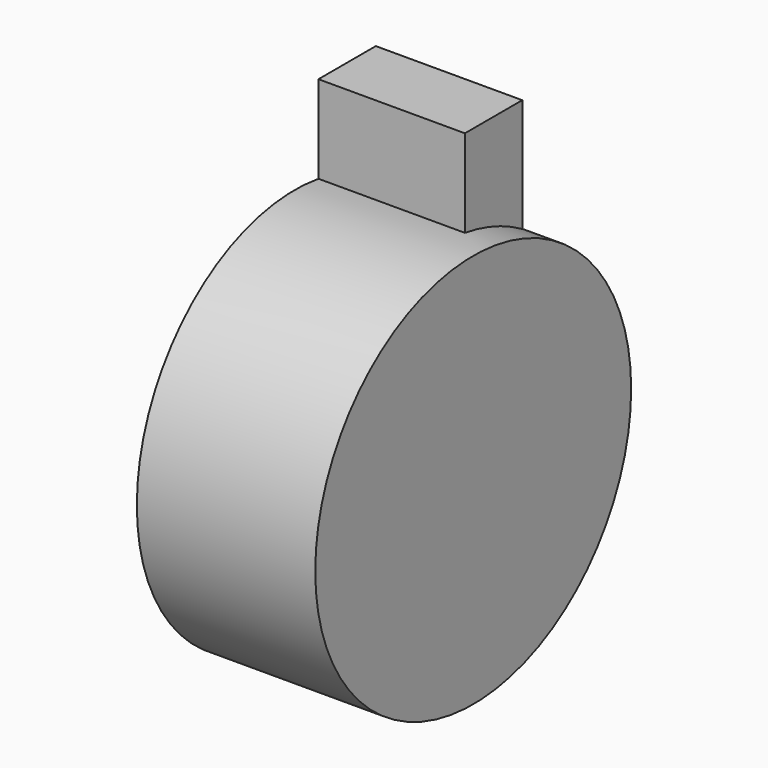
from build123d import *

# Parameters (mm, degrees)
F0_W     = 62.546991
F0_H     = 30.615859
F1_DEPTH = 127
F2_R     = 84.31658
F3_DEPTH = 76.2


with BuildPart() as f1:
    # F0 (on Top) → F1 (new body)
    with BuildSketch(Plane.XY):
        with Locations((31.273495, -15.30793)):
            Rectangle(F0_W, F0_H)
    extrude(amount=F1_DEPTH)

    # F2 (on Right) → F3 (join)
    with BuildSketch(Plane.YZ):
        with Locations((-43.24536, 6.199985)):
            Circle(F2_R)
    extrude(amount=F3_DEPTH)


solid = f1.part
